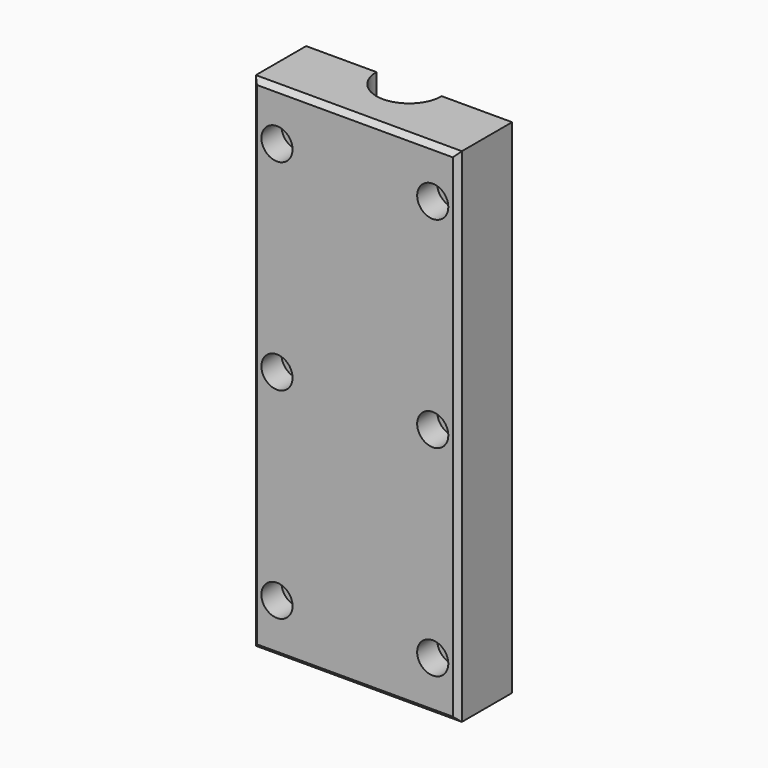
from build123d import *

# Parameters (mm, degrees)
PAD_DEPTH       = 50
SKETCH001_R     = 1.65
POCKET_DEPTH    = 13.501
SKETCH002_R     = 3.1
POCKET001_DEPTH = 5
SKETCH003_R     = 10.6
POCKET002_DEPTH = 30.3
SKETCH004_R     = 10.6
POCKET003_DEPTH = 30.3
CHAMFER_SIZE    = 1


with BuildPart() as part:
    # Sketch → Pad (new body, symmetric)
    with BuildSketch(Plane.XY):
        with BuildLine():
            Line((-20.5, -13.5), (20.5, -13.5))
            Line((20.5, -13.5), (20.5, 0))
            Line((20.5, 0), (6.5, 0))
            ThreePointArc((-6.5, 0), (0, -6.5), (6.5, 0))
            Line((-6.5, 0), (-20.5, 0))
            Line((-20.5, 0), (-20.5, -13.5))
        make_face()
    extrude(amount=PAD_DEPTH, both=True)

    # Sketch001 → Pocket (cut, through all)
    with BuildSketch(Plane.XZ):
        with Locations((-15.5, 40)):
            Circle(SKETCH001_R)
        with Locations((-15.5, 0)):
            Circle(SKETCH001_R)
        with Locations((-15.5, -40)):
            Circle(SKETCH001_R)
        with Locations((15.5, -40)):
            Circle(SKETCH001_R)
        with Locations((15.5, 0)):
            Circle(SKETCH001_R)
        with Locations((15.5, 40)):
            Circle(SKETCH001_R)
    extrude(amount=POCKET_DEPTH, mode=Mode.SUBTRACT)

    # Sketch002 (on Face1 of Pocket) → Pocket001 (cut)
    with BuildSketch(Plane.XZ.offset(13.5)):
        with Locations((-15.5, 40)):
            Circle(SKETCH002_R)
        with Locations((15.5, 40)):
            Circle(SKETCH002_R)
        with Locations((15.5, 0)):
            Circle(SKETCH002_R)
        with Locations((-15.5, 0)):
            Circle(SKETCH002_R)
        with Locations((-15.5, -40)):
            Circle(SKETCH002_R)
        with Locations((15.5, -40)):
            Circle(SKETCH002_R)
    extrude(amount=-POCKET001_DEPTH, mode=Mode.SUBTRACT)

    # Sketch003 (on DatumPlane) → Pocket002 (cut)
    with BuildSketch(Plane.XY.offset(45)):
        Circle(SKETCH003_R)
    extrude(amount=-POCKET002_DEPTH, mode=Mode.SUBTRACT)

    # Sketch004 (on DatumPlane) → Pocket003 (cut)
    with BuildSketch(Plane.XY.offset(-45)):
        Circle(SKETCH004_R)
    extrude(amount=POCKET003_DEPTH, mode=Mode.SUBTRACT)

    # Chamfer
    chamfer_edges = [part.edges().sort_by_distance(p)[0] for p in [
        (20.5, -13.5, 0),
        (0, -13.5, 50),
        (-20.5, -13.5, 0),
        (0, -13.5, -50),
    ]]
    chamfer(chamfer_edges, length=CHAMFER_SIZE)


solid = part.part
